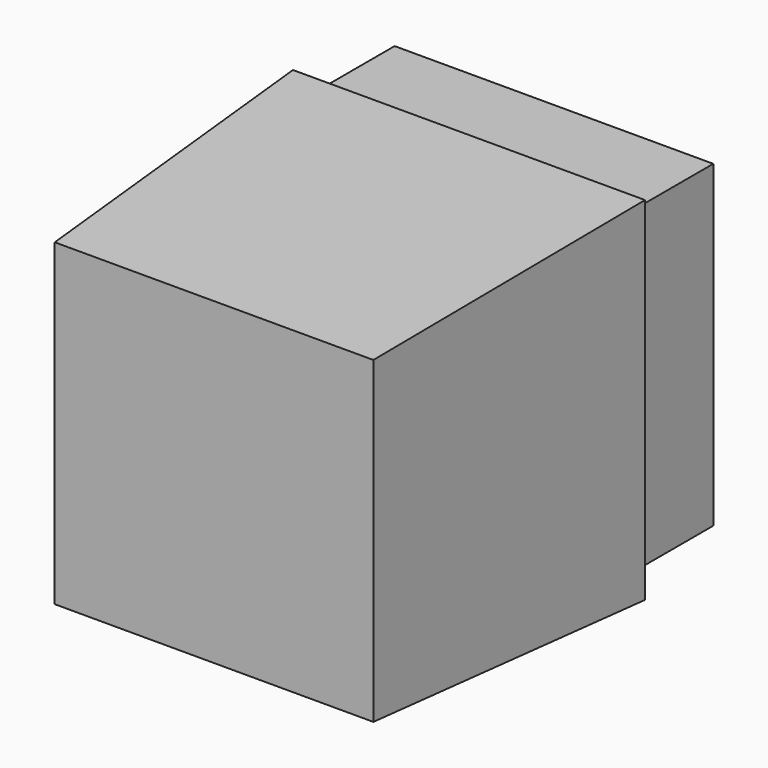
from build123d import *

# Parameters (mm, degrees)
F0_W     = 38.1
F0_H     = 38.1
F1_DEPTH = 50.8
F2_W     = 38.1
F2_H     = 38.1
F3_DEPTH = 38.1
F3_TAPER = -3


with BuildPart() as f1:
    # F0 (on Front) → F1 (new body)
    with BuildSketch(Plane.XZ):
        with Locations((19.05, 19.05)):
            Rectangle(F0_W, F0_H)
    extrude(amount=F1_DEPTH)

    # F2 (on face) → F3 (join)
    with BuildSketch(Plane.XZ.offset(50.8)):
        with Locations((19.05, 19.05)):
            Rectangle(F2_W, F2_H)
    extrude(amount=-F3_DEPTH, taper=F3_TAPER)


solid = f1.part
